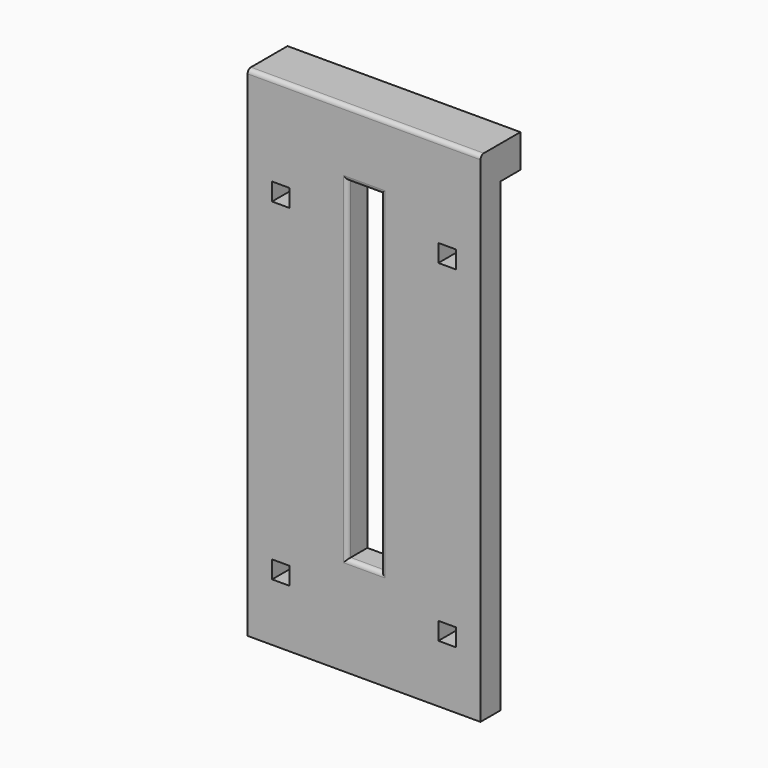
from build123d import *

# Parameters (mm, degrees)
F0_W     = 88.9
F0_H     = 190.5
F0_W_2   = 6.731
F0_H_2   = 6.731
F0_W_3   = 12.7
F0_H_3   = 127
F1_DEPTH = 9.525
F2_R     = 1.5875
F3_W     = 9.525
F3_H     = 12.7
F4_DEPTH = 44.45


with BuildPart() as f1:
    # F0 (on Front) → F1 (new body)
    with BuildSketch(Plane.XZ):
        Rectangle(F0_W, F0_H)
        with Locations((-31.75, -69.85)):
            Rectangle(F0_W_2, F0_H_2, mode=Mode.SUBTRACT)
        with Locations((31.75, -69.85)):
            Rectangle(F0_W_2, F0_H_2, mode=Mode.SUBTRACT)
        with Locations((-31.75, 57.15)):
            Rectangle(F0_W_2, F0_H_2, mode=Mode.SUBTRACT)
        with Locations((0, 6.35)):
            Rectangle(F0_W_3, F0_H_3, mode=Mode.SUBTRACT)
        with Locations((31.75, 57.15)):
            Rectangle(F0_W_2, F0_H_2, mode=Mode.SUBTRACT)
    extrude(amount=F1_DEPTH)

    # F2
    f2_edges = [f1.edges().sort_by_distance(p)[0] for p in [
        (0, -9.525, 95.25),
        (-6.35, -9.525, 6.35),
        (6.35, -9.525, 6.35),
        (0, -9.525, 69.85),
        (0, -9.525, -57.15),
    ]]
    fillet(f2_edges, radius=F2_R)

    # F3 (on Right) → F4 (join, symmetric)
    with BuildSketch(Plane.YZ):
        with Locations((4.7625, 88.9)):
            Rectangle(F3_W, F3_H)
    extrude(amount=F4_DEPTH, both=True)


solid = f1.part
